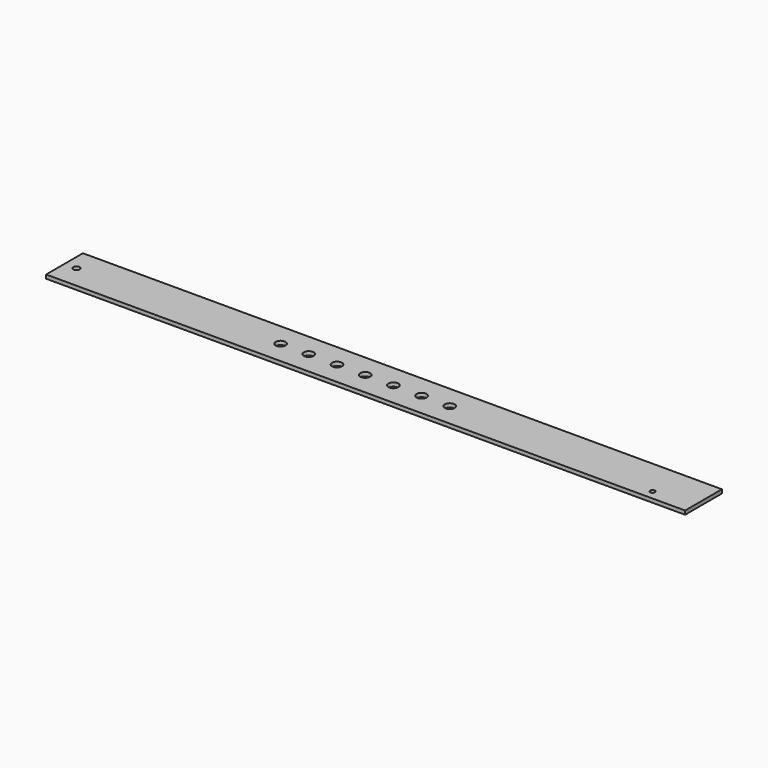
from build123d import *

# Parameters (mm, degrees)
F0_W     = 300
F0_H     = 24.5
F0_R     = 2.65
F1_DEPTH = 2
F2_DEPTH = 10
F3_DEPTH = 30
F4_R     = 1.7
F5_DEPTH = 2
F6_R     = 1.25
F7_DEPTH = 2


with BuildPart() as f1:
    # F0 (on Top) → F1 (new body)
    with BuildSketch(Plane.XY):
        Rectangle(F0_W, F0_H)
        with Locations((-45, 0)):
            Circle(F0_R, mode=Mode.SUBTRACT)
        with Locations((-30, 0)):
            Circle(F0_R, mode=Mode.SUBTRACT)
        with Locations((-15, 0)):
            Circle(F0_R, mode=Mode.SUBTRACT)
        Circle(F0_R, mode=Mode.SUBTRACT)
        with Locations((15, 0)):
            Circle(F0_R, mode=Mode.SUBTRACT)
        with Locations((30, 0)):
            Circle(F0_R, mode=Mode.SUBTRACT)
        with Locations((45, 0)):
            Circle(F0_R, mode=Mode.SUBTRACT)
    extrude(amount=F1_DEPTH)

    # F2 (add): a face of the model
    f2_faces = [f1.faces().sort_by_distance(p)[0] for p in [
        (-150, 0, 1),
    ]]
    extrude(f2_faces, amount=F2_DEPTH)

    # F3 (add): a face of the model
    f3_faces = [f1.faces().sort_by_distance(p)[0] for p in [
        (150, 0, 1),
    ]]
    extrude(f3_faces, amount=F3_DEPTH)

    # F4 (on face) → F5 (cut, through all)
    with BuildSketch(Plane.XY.offset(2)):
        with Locations((-153.6, 0)):
            Circle(F4_R)
    extrude(amount=-F5_DEPTH, mode=Mode.SUBTRACT)

    # F6 (on face) → F7 (cut, through all)
    with BuildSketch(Plane.XY.offset(2)):
        with Locations((158.75, -7.25)):
            Circle(F6_R)
    extrude(amount=-F7_DEPTH, mode=Mode.SUBTRACT)


solid = f1.part
